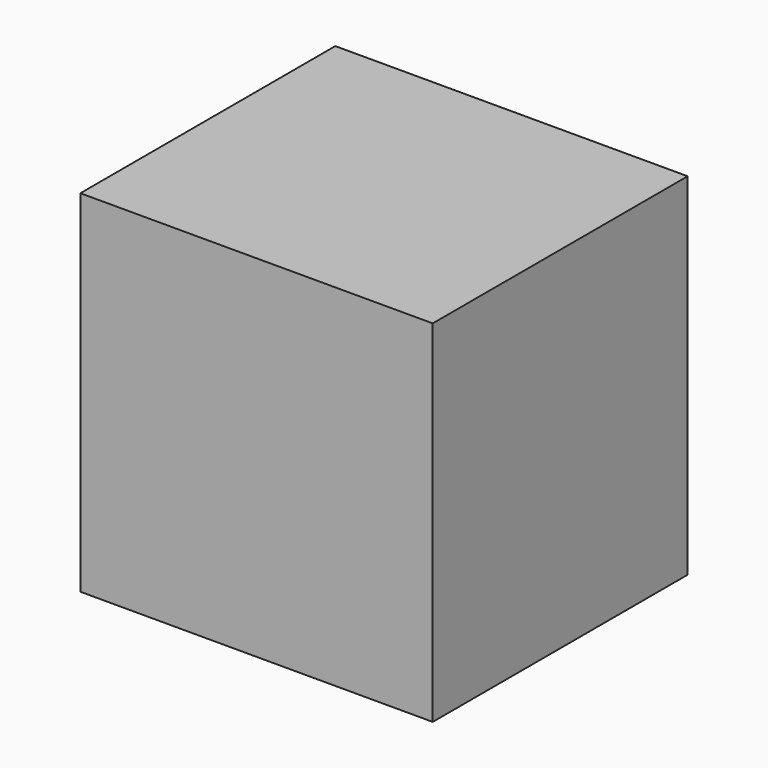
from build123d import *

# Parameters (mm, degrees)
F0_W     = 30.12784
F0_H     = 27.24432
F1_DEPTH = 5
F2_W     = 19.627626
F2_H     = 9.16492
F2_W_2   = 10.500214
F3_DEPTH = 25


with BuildPart() as f1:
    # F0 (on Top) → F1 (new body)
    with BuildSketch(Plane.XY):
        with Locations((15.06392, 13.62216)):
            Rectangle(F0_W, F0_H)
    extrude(amount=F1_DEPTH)

    # F2 (on face) → F3 (join)
    with BuildSketch(Plane.XY.offset(5)):
        with Locations((20.314027, 4.58246)):
            Rectangle(F2_W, F2_H)
        with Locations((5.250107, 4.58246)):
            Rectangle(F2_W_2, F2_H)
        Polygon((10.500214, 9.16492), (30.12784, 9.16492), (30.12784, 27.24432), (0, 27.24432), (0, 9.16492), align=None)
    extrude(amount=F3_DEPTH)


solid = f1.part
